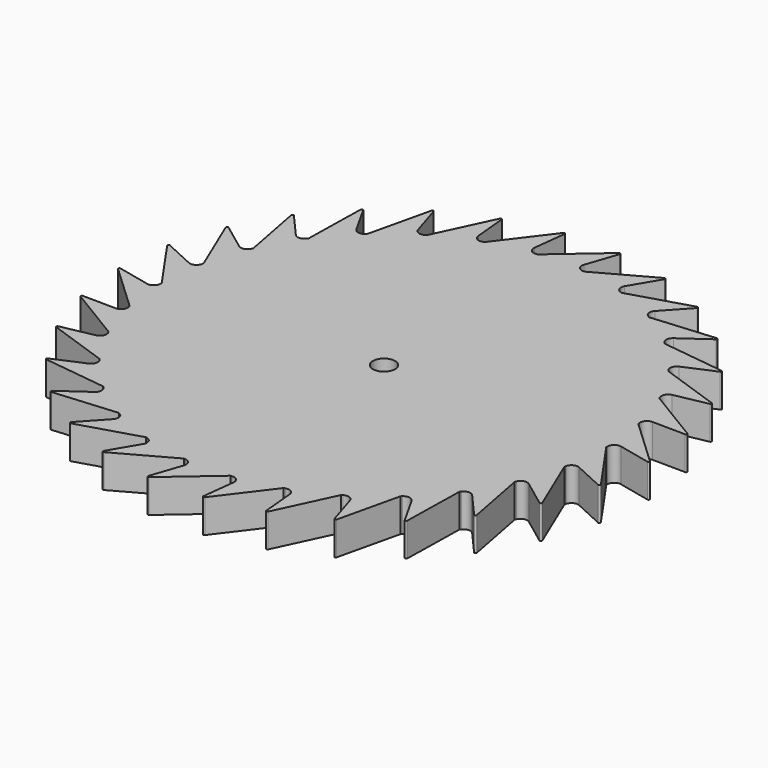
from build123d import *

# Parameters (mm, degrees)
F0_R     = 1.27
F1_DEPTH = 3.81


with BuildPart() as f1:
    # F0 (on Top) → F1 (new body)
    with BuildSketch(Plane.XY):
        with BuildLine():
            ThreePointArc((3.036516, 29.871042), (2.987075, 30.01713), (2.833131, 30.007792))
            Line((2.833131, 30.007792), (-2.655023, 25.260856))
            ThreePointArc((-2.655023, 25.260856), (-2.747379, 25.250978), (-2.839698, 25.240763))
            ThreePointArc((-2.839698, 25.240763), (-3.464974, 25.460443), (-3.681702, 26.086748))
            Line((-3.681702, 26.086748), (-3.240378, 29.849616))
            ThreePointArc((-3.240378, 29.849616), (-3.319112, 29.982231), (-3.467751, 29.941091))
            Line((-3.467751, 29.941091), (-7.849032, 24.156836))
            ThreePointArc((-7.849032, 24.156836), (-7.937316, 24.127972), (-8.025494, 24.098785))
            ThreePointArc((-8.025494, 24.098785), (-8.682779, 24.183662), (-9.024987, 24.751221))
            Line((-9.024987, 24.751221), (-9.375652, 28.523617))
            ThreePointArc((-9.375652, 28.523617), (-9.480238, 28.636966), (-9.617075, 28.56582))
            Line((-9.617075, 28.56582), (-12.7, 21.997045))
            ThreePointArc((-12.7, 21.997045), (-12.780354, 21.950457), (-12.860536, 21.903575))
            ThreePointArc((-12.860536, 21.903575), (-13.521106, 21.84994), (-13.973838, 22.333947))
            Line((-13.973838, 22.333947), (-15.101165, 25.951))
            ThreePointArc((-15.101165, 25.951), (-15.227032, 26.040127), (-15.346087, 25.942086))
            Line((-15.346087, 25.942086), (-16.995917, 18.875879))
            ThreePointArc((-16.995917, 18.875879), (-17.064829, 18.813602), (-17.133512, 18.751074))
            ThreePointArc((-17.133512, 18.751074), (-17.768495, 18.56127), (-18.311965, 18.940572))
            Line((-18.311965, 18.940572), (-20.166685, 22.2442))
            ThreePointArc((-20.166685, 22.2442), (-20.308331, 22.30521), (-20.404401, 22.184559))
            Line((-20.404401, 22.184559), (-20.549032, 14.929745))
            ThreePointArc((-20.549032, 14.929745), (-20.603489, 14.854502), (-20.657671, 14.77906))
            ThreePointArc((-20.657671, 14.77906), (-21.239316, 14.461384), (-21.849771, 14.719404))
            Line((-21.849771, 14.719404), (-24.350824, 17.565221))
            ThreePointArc((-24.350824, 17.565221), (-24.50206, 17.595448), (-24.570945, 17.45746))
            Line((-24.570945, 17.45746), (-23.204055, 10.331111))
            ThreePointArc((-23.204055, 10.331111), (-23.241678, 10.246189), (-23.278991, 10.161131))
            ThreePointArc((-23.278991, 10.161131), (-23.781877, 9.729466), (-24.432637, 9.854927))
            Line((-24.432637, 9.854927), (-27.470715, 12.118558))
            ThreePointArc((-27.470715, 12.118558), (-27.62493, 12.11668), (-27.663621, 11.967385))
            Line((-27.663621, 11.967385), (-24.844949, 5.280957))
            ThreePointArc((-24.844949, 5.280957), (-24.864094, 5.190069), (-24.882907, 5.099111))
            ThreePointArc((-24.882907, 5.099111), (-25.285056, 4.572324), (-25.94768, 4.559742))
            Line((-25.94768, 4.559742), (-29.390003, 6.142256))
            ThreePointArc((-29.390003, 6.142256), (-29.540459, 6.108356), (-29.547264, 5.954279))
            Line((-29.547264, 5.954279), (-25.4, 0))
            ThreePointArc((-25.4, 0), (-25.39983, -0.092883), (-25.399321, -0.185764))
            ThreePointArc((-25.399321, -0.185764), (-25.683156, -0.784651), (-26.328684, -0.934725))
            Line((-26.328684, -0.934725), (-30.024808, -0.102493))
            ThreePointArc((-30.024808, -0.102493), (-30.164927, -0.166933), (-30.139549, -0.319058))
            Line((-30.139549, -0.319058), (-24.844949, -5.280957))
            ThreePointArc((-24.844949, -5.280957), (-24.825472, -5.371774), (-24.805662, -5.46252))
            ThreePointArc((-24.805662, -5.46252), (-24.958779, -6.107333), (-25.558999, -6.388341))
            Line((-25.558999, -6.388341), (-29.347384, -6.342762))
            ThreePointArc((-29.347384, -6.342762), (-29.471044, -6.434926), (-29.414592, -6.57845))
            Line((-29.414592, -6.57845), (-23.204055, -10.331111))
            ThreePointArc((-23.204055, -10.331111), (-23.166121, -10.415894), (-23.127877, -10.500538))
            ThreePointArc((-23.127877, -10.500538), (-23.143584, -11.163095), (-23.672263, -11.562755))
            Line((-23.672263, -11.562755), (-27.387339, -12.305821))
            ThreePointArc((-27.387339, -12.305821), (-27.489135, -12.421682), (-27.404076, -12.550333))
            Line((-27.404076, -12.550333), (-20.549032, -14.929745))
            ThreePointArc((-20.549032, -14.929745), (-20.494299, -15.004789), (-20.439293, -15.079632))
            ThreePointArc((-20.439293, -15.079632), (-20.316903, -15.730977), (-20.750935, -16.231821))
            Line((-20.750935, -16.231821), (-24.230336, -17.731058))
            ThreePointArc((-24.230336, -17.731058), (-24.305818, -17.865551), (-24.19587, -17.973706))
            Line((-24.19587, -17.973706), (-16.995917, -18.875879))
            ThreePointArc((-16.995917, -18.875879), (-16.926779, -18.937903), (-16.857413, -18.999674))
            ThreePointArc((-16.857413, -18.999674), (-16.602276, -19.611339), (-16.922692, -20.191479))
            Line((-16.922692, -20.191479), (-20.014351, -22.381362))
            ThreePointArc((-20.014351, -22.381362), (-20.060221, -22.52861), (-19.930189, -22.611541))
            Line((-19.930189, -22.611541), (-12.7, -21.997045))
            ThreePointArc((-12.7, -21.997045), (-12.619476, -22.043339), (-12.538784, -22.089339))
            ThreePointArc((-12.538784, -22.089339), (-12.16205, -22.634591), (-12.354846, -23.268672))
            Line((-12.354846, -23.268672), (-14.923643, -26.053493))
            ThreePointArc((-14.923643, -26.053493), (-14.937895, -26.20706), (-14.793463, -26.261144))
            Line((-14.793463, -26.261144), (-7.849032, -24.156836))
            ThreePointArc((-7.849032, -24.156836), (-7.760643, -24.185376), (-7.67215, -24.213594))
            ThreePointArc((-7.67215, -24.213594), (-7.190284, -24.668604), (-7.247034, -25.328913))
            Line((-7.247034, -25.328913), (-9.1807, -28.586961))
            ThreePointArc((-9.1807, -28.586961), (-9.162713, -28.740136), (-9.010191, -28.763009))
            Line((-9.010191, -28.763009), (-2.655023, -25.260856))
            ThreePointArc((-2.655023, -25.260856), (-2.562632, -25.270396), (-2.470206, -25.279598))
            ThreePointArc((-2.470206, -25.279598), (-1.904268, -25.62448), (-1.822492, -26.282158))
            Line((-1.822492, -26.282158), (-3.036516, -29.871042))
            ThreePointArc((-3.036516, -29.871042), (-2.987075, -30.01713), (-2.833131, -30.007792))
            Line((-2.833131, -30.007792), (2.655023, -25.260856))
            ThreePointArc((2.655023, -25.260856), (2.747379, -25.250978), (2.839698, -25.240763))
            ThreePointArc((2.839698, -25.240763), (3.464974, -25.460443), (3.681702, -26.086748))
            Line((3.681702, -26.086748), (3.240378, -29.849616))
            ThreePointArc((3.240378, -29.849616), (3.319112, -29.982231), (3.467751, -29.941091))
            Line((3.467751, -29.941091), (7.849032, -24.156836))
            ThreePointArc((7.849032, -24.156836), (7.937316, -24.127972), (8.025494, -24.098785))
            ThreePointArc((8.025494, -24.098785), (8.682779, -24.183662), (9.024987, -24.751221))
            Line((9.024987, -24.751221), (9.375652, -28.523617))
            ThreePointArc((9.375652, -28.523617), (9.480238, -28.636966), (9.617075, -28.56582))
            Line((9.617075, -28.56582), (12.7, -21.997045))
            ThreePointArc((12.7, -21.997045), (12.780354, -21.950457), (12.860536, -21.903575))
            ThreePointArc((12.860536, -21.903575), (13.521106, -21.84994), (13.973838, -22.333947))
            Line((13.973838, -22.333947), (15.101165, -25.951))
            ThreePointArc((15.101165, -25.951), (15.227032, -26.040127), (15.346087, -25.942086))
            Line((15.346087, -25.942086), (16.995917, -18.875879))
            ThreePointArc((16.995917, -18.875879), (17.064829, -18.813602), (17.133512, -18.751074))
            ThreePointArc((17.133512, -18.751074), (17.768495, -18.56127), (18.311965, -18.940572))
            Line((18.311965, -18.940572), (20.166685, -22.2442))
            ThreePointArc((20.166685, -22.2442), (20.308331, -22.30521), (20.404401, -22.184559))
            Line((20.404401, -22.184559), (20.549032, -14.929745))
            ThreePointArc((20.549032, -14.929745), (20.603489, -14.854502), (20.657671, -14.77906))
            ThreePointArc((20.657671, -14.77906), (21.239316, -14.461384), (21.849771, -14.719404))
            Line((21.849771, -14.719404), (24.350824, -17.565221))
            ThreePointArc((24.350824, -17.565221), (24.50206, -17.595448), (24.570945, -17.45746))
            Line((24.570945, -17.45746), (23.204055, -10.331111))
            ThreePointArc((23.204055, -10.331111), (23.241678, -10.246189), (23.278991, -10.161131))
            ThreePointArc((23.278991, -10.161131), (23.781877, -9.729466), (24.432637, -9.854927))
            Line((24.432637, -9.854927), (27.470715, -12.118558))
            ThreePointArc((27.470715, -12.118558), (27.62493, -12.11668), (27.663621, -11.967385))
            Line((27.663621, -11.967385), (24.844949, -5.280957))
            ThreePointArc((24.844949, -5.280957), (24.864094, -5.190069), (24.882907, -5.099111))
            ThreePointArc((24.882907, -5.099111), (25.285056, -4.572324), (25.94768, -4.559742))
            Line((25.94768, -4.559742), (29.390003, -6.142256))
            ThreePointArc((29.390003, -6.142256), (29.540459, -6.108356), (29.547264, -5.954279))
            Line((29.547264, -5.954279), (25.4, 0))
            ThreePointArc((25.4, 0), (25.39983, 0.092883), (25.399321, 0.185764))
            ThreePointArc((25.399321, 0.185764), (25.683156, 0.784651), (26.328684, 0.934725))
            Line((26.328684, 0.934725), (30.024808, 0.102493))
            ThreePointArc((30.024808, 0.102493), (30.164927, 0.166933), (30.139549, 0.319058))
            Line((30.139549, 0.319058), (24.844949, 5.280957))
            ThreePointArc((24.844949, 5.280957), (24.825472, 5.371774), (24.805662, 5.46252))
            ThreePointArc((24.805662, 5.46252), (24.958779, 6.107333), (25.558999, 6.388341))
            Line((25.558999, 6.388341), (29.347384, 6.342762))
            ThreePointArc((29.347384, 6.342762), (29.471044, 6.434926), (29.414592, 6.57845))
            Line((29.414592, 6.57845), (23.204055, 10.331111))
            ThreePointArc((23.204055, 10.331111), (23.166121, 10.415894), (23.127877, 10.500538))
            ThreePointArc((23.127877, 10.500538), (23.143584, 11.163095), (23.672263, 11.562755))
            Line((23.672263, 11.562755), (27.387339, 12.305821))
            ThreePointArc((27.387339, 12.305821), (27.489135, 12.421682), (27.404076, 12.550333))
            Line((27.404076, 12.550333), (20.549032, 14.929745))
            ThreePointArc((20.549032, 14.929745), (20.494299, 15.004789), (20.439293, 15.079632))
            ThreePointArc((20.439293, 15.079632), (20.316903, 15.730977), (20.750935, 16.231821))
            Line((20.750935, 16.231821), (24.230336, 17.731058))
            ThreePointArc((24.230336, 17.731058), (24.305818, 17.865551), (24.19587, 17.973706))
            Line((24.19587, 17.973706), (16.995917, 18.875879))
            ThreePointArc((16.995917, 18.875879), (16.926779, 18.937903), (16.857413, 18.999674))
            ThreePointArc((16.857413, 18.999674), (16.602276, 19.611339), (16.922692, 20.191479))
            Line((16.922692, 20.191479), (20.014351, 22.381362))
            ThreePointArc((20.014351, 22.381362), (20.060221, 22.52861), (19.930189, 22.611541))
            Line((19.930189, 22.611541), (12.7, 21.997045))
            ThreePointArc((12.7, 21.997045), (12.619476, 22.043339), (12.538784, 22.089339))
            ThreePointArc((12.538784, 22.089339), (12.16205, 22.634591), (12.354846, 23.268672))
            Line((12.354846, 23.268672), (14.923643, 26.053493))
            ThreePointArc((14.923643, 26.053493), (14.937895, 26.20706), (14.793463, 26.261144))
            Line((14.793463, 26.261144), (7.849032, 24.156836))
            ThreePointArc((7.849032, 24.156836), (7.760643, 24.185376), (7.67215, 24.213594))
            ThreePointArc((7.67215, 24.213594), (7.190284, 24.668604), (7.247034, 25.328913))
            Line((7.247034, 25.328913), (9.1807, 28.586961))
            ThreePointArc((9.1807, 28.586961), (9.162713, 28.740136), (9.010191, 28.763009))
            Line((9.010191, 28.763009), (2.655023, 25.260856))
            ThreePointArc((2.655023, 25.260856), (2.562632, 25.270396), (2.470206, 25.279598))
            ThreePointArc((2.470206, 25.279598), (1.904268, 25.62448), (1.822492, 26.282158))
            Line((1.822492, 26.282158), (3.036516, 29.871042))
        make_face()
        Circle(F0_R, mode=Mode.SUBTRACT)
    extrude(amount=F1_DEPTH)


solid = f1.part
